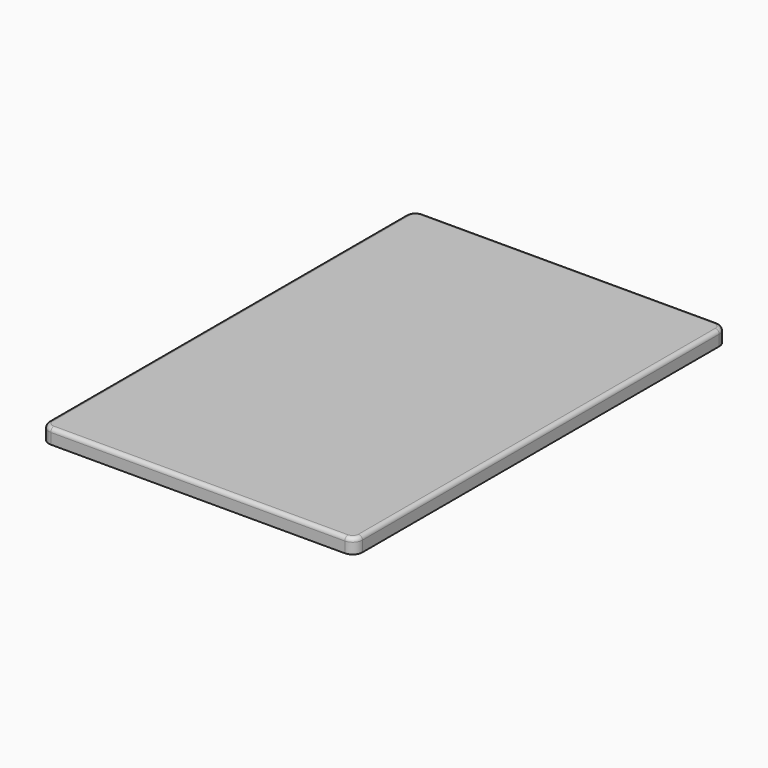
from build123d import *

# Parameters (mm, degrees)
F0_W     = 406.4
F0_H     = 603.25
F1_DEPTH = 19.05
F2_R     = 12.7
F3_R     = 5.08


with BuildPart() as f1:
    # F0 (on Top) → F1 (new body)
    with BuildSketch(Plane.XY):
        with Locations((-203.2, 301.625)):
            Rectangle(F0_W, F0_H)
    extrude(amount=F1_DEPTH)

    # F2
    f2_edges = [f1.edges().sort_by_distance(p)[0] for p in [
        (-406.4, 0, 9.525),
        (0, 0, 9.525),
        (0, 603.25, 9.525),
        (-406.4, 603.25, 9.525),
    ]]
    fillet(f2_edges, radius=F2_R)

    # F3
    f3_edges = [f1.edges().sort_by_distance(p)[0] for p in [
        (-203.2, 0, 19.05),
    ]]
    fillet(f3_edges, radius=F3_R)


solid = f1.part
